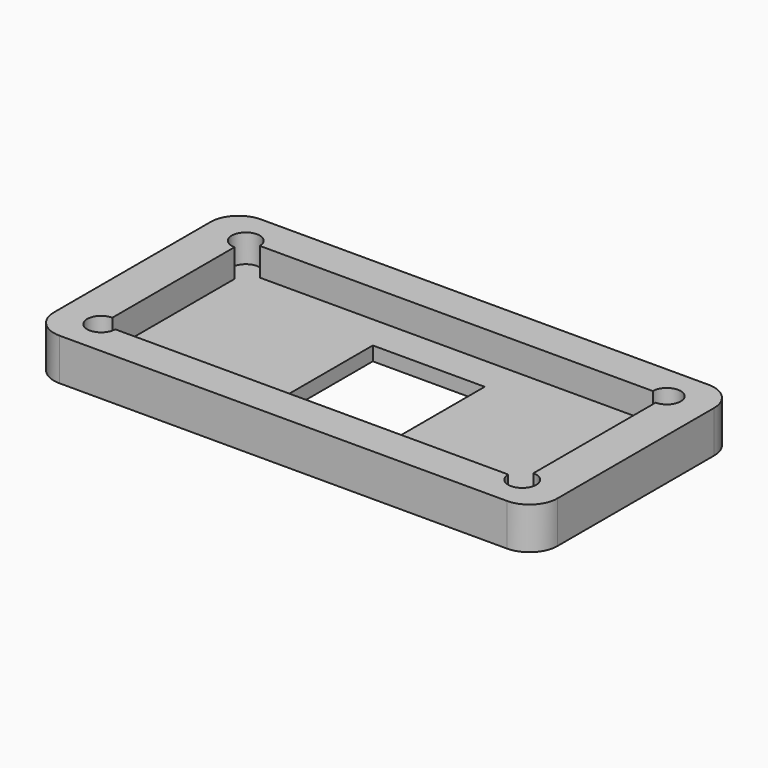
from build123d import *

# Parameters (mm, degrees)
F0_W     = 36
F0_H     = 18
F1_DEPTH = 3
F2_W     = 30.1
F2_H     = 12.92
F3_DEPTH = 2
F4_W     = 8
F4_H     = 8
F5_DEPTH = 3.001
F6_R     = 2
F7_R     = 1
F8_DEPTH = 2


with BuildPart() as f1:
    # F0 (on Top) → F1 (new body)
    with BuildSketch(Plane.XY):
        Rectangle(F0_W, F0_H)
    extrude(amount=F1_DEPTH)

    # F2 (on face) → F3 (cut)
    with BuildSketch(Plane.XY.offset(3)):
        Rectangle(F2_W, F2_H)
    extrude(amount=-F3_DEPTH, mode=Mode.SUBTRACT)

    # F4 (on face) → F5 (cut, through all)
    with BuildSketch(Plane(origin=(0, 0, 0), x_dir=(1, 0, 0), z_dir=(0, 0, -1))):
        Rectangle(F4_W, F4_H)
    extrude(amount=-F5_DEPTH, mode=Mode.SUBTRACT)

    # F6
    f6_edges = [f1.edges().sort_by_distance(p)[0] for p in [
        (-18, -9, 1.5),
        (-18, 9, 1.5),
        (18, -9, 1.5),
        (18, 9, 1.5),
    ]]
    fillet(f6_edges, radius=F6_R)

    # F7 (on face) → F8 (cut)
    with BuildSketch(Plane.XY.offset(3)):
        with Locations((-15.05, 6.46)):
            Circle(F7_R)
        with Locations((-15.05, -6.46)):
            Circle(F7_R)
        with Locations((15.05, 6.46)):
            Circle(F7_R)
        with Locations((15.05, -6.46)):
            Circle(F7_R)
    extrude(amount=-F8_DEPTH, mode=Mode.SUBTRACT)


solid = f1.part
